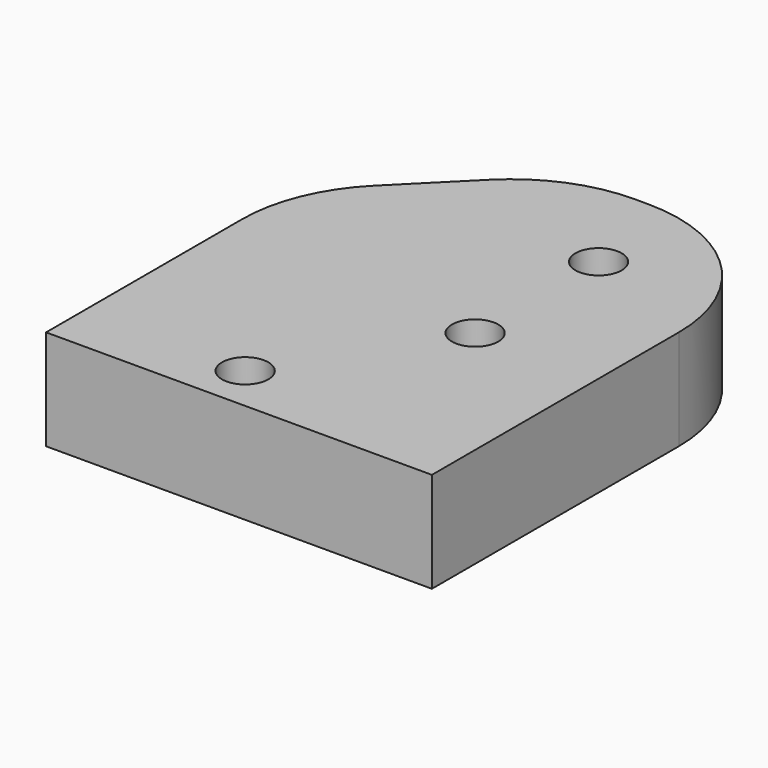
from build123d import *

# Parameters (mm, degrees)
F0_W     = 25
F0_H     = 30
F1_DEPTH = 6.5
F2_R     = 1.5
F3_DEPTH = 6.501
F4_W     = 1
F4_H     = 6.1
F5_DEPTH = 0.9
F6_SIZE  = 10
F7_R     = 10


with BuildPart() as f1:
    # F0 (on Top) → F1 (new body)
    with BuildSketch(Plane.XY):
        Rectangle(F0_W, F0_H)
    extrude(amount=F1_DEPTH)

    # F2 (on face) → F3 (cut, through all)
    with BuildSketch(Plane.XY.offset(6.5)):
        with Locations((-2, -12)):
            Circle(F2_R)
        with Locations((4.5, -1.5)):
            Circle(F2_R)
        with Locations((4.5, 8.5)):
            Circle(F2_R)
    extrude(amount=-F3_DEPTH, mode=Mode.SUBTRACT)

    # F4 (on face) → F5 (cut)
    with BuildSketch(Plane(origin=(0, 0, 0), x_dir=(1, 0, 0), z_dir=(0, 0, -1))):
        with Locations((11.6, 6.95)):
            Rectangle(F4_W, F4_H)
        with Locations((9.6, 6.95)):
            Rectangle(F4_W, F4_H)
        with Locations((7.6, 6.95)):
            Rectangle(F4_W, F4_H)
        with Locations((5.6, 6.95)):
            Rectangle(F4_W, F4_H)
        with Locations((3.6, 6.95)):
            Rectangle(F4_W, F4_H)
        with Locations((1.6, 6.95)):
            Rectangle(F4_W, F4_H)
        with Locations((-0.4, 6.95)):
            Rectangle(F4_W, F4_H)
        with Locations((-2.4, 6.95)):
            Rectangle(F4_W, F4_H)
        with Locations((-4.4, 6.95)):
            Rectangle(F4_W, F4_H)
        with Locations((-6.4, 6.95)):
            Rectangle(F4_W, F4_H)
        with Locations((-8.4, 6.95)):
            Rectangle(F4_W, F4_H)
        with Locations((-10.4, 6.95)):
            Rectangle(F4_W, F4_H)
        with Locations((-12.4, 6.95)):
            Rectangle(F4_W, F4_H)
    extrude(amount=-F5_DEPTH, mode=Mode.SUBTRACT)

    # F6
    f6_edges = [f1.edges().sort_by_distance(p)[0] for p in [
        (-12.5, 15, 3.25),
    ]]
    chamfer(f6_edges, length=F6_SIZE)

    # F7
    f7_edges = [f1.edges().sort_by_distance(p)[0] for p in [
        (-12.5, 5, 3.25),
        (-2.5, 15, 3.25),
        (12.5, 15, 3.25),
    ]]
    fillet(f7_edges, radius=F7_R)


solid = f1.part
